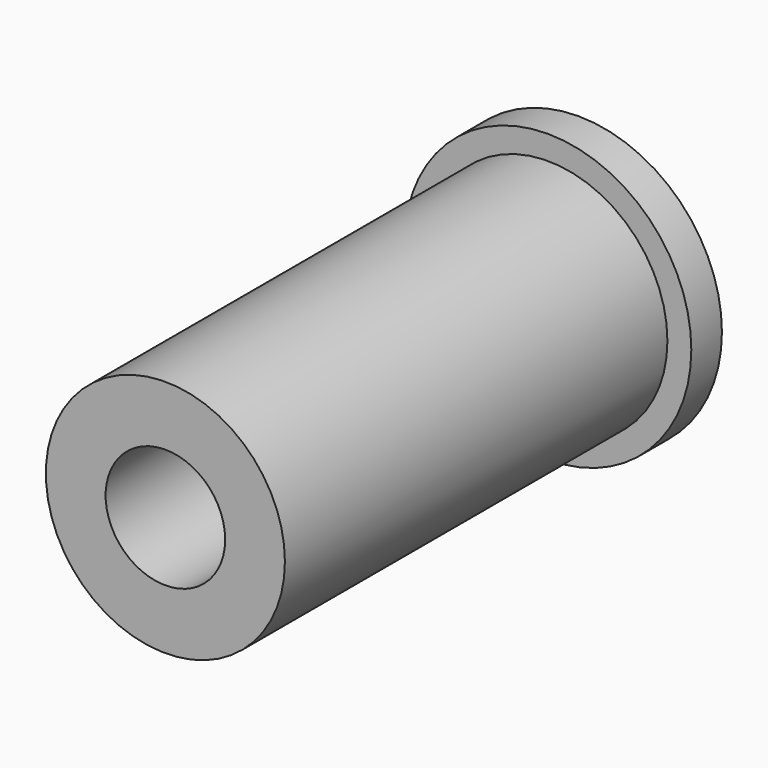
from build123d import *

# Parameters (mm, degrees)
F0_R     = 3
F1_DEPTH = 0.8
F2_R     = 2.5
F3_DEPTH = 10
F4_R     = 1.25
F5_DEPTH = 25
F6_R     = 1.55
F6_R_2   = 1.25
F7_DEPTH = 1


with BuildPart() as f1:
    # F0 (on Front) → F1 (new body)
    with BuildSketch(Plane.XZ):
        Circle(F0_R)
    extrude(amount=F1_DEPTH)

    # F2 (on face) → F3 (join)
    with BuildSketch(Plane.XZ.offset(0.8)):
        Circle(F2_R)
    extrude(amount=F3_DEPTH)

    # F4 (on face) → F5 (cut)
    with BuildSketch(Plane.XZ.offset(10.8)):
        Circle(F4_R)
    extrude(amount=-F5_DEPTH, mode=Mode.SUBTRACT)

    # F6 (on face) → F7 (cut)
    with BuildSketch(Plane(origin=(0, 0, 0), x_dir=(-1, 0, 0), z_dir=(0, 1, 0))):
        Circle(F6_R)
        Circle(F6_R_2, mode=Mode.SUBTRACT)
        Circle(F6_R)
    extrude(amount=-F7_DEPTH, mode=Mode.SUBTRACT)


solid = f1.part
